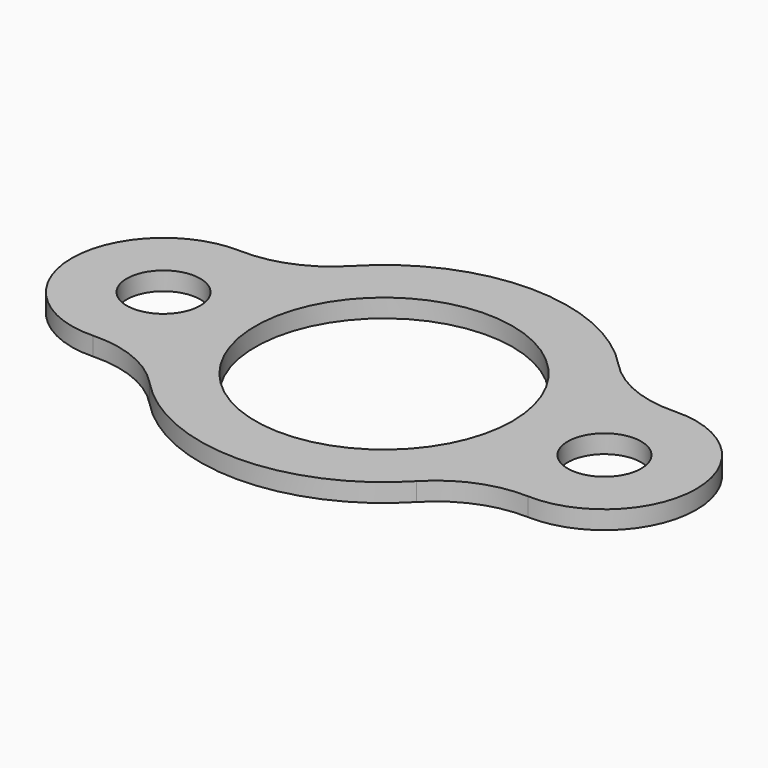
from build123d import *

# Parameters (mm, degrees)
F0_R     = 12.7
F0_R_2   = 44.45
F1_DEPTH = 6.35


with BuildPart() as f1:
    # F0 (on Top) → F1 (new body)
    with BuildSketch(Plane.XY):
        with BuildLine():
            ThreePointArc((89.465755, 24.931099), (73.695665, 27.764185), (60.48486, 36.830428))
            ThreePointArc((60.48486, 36.830428), (14.348141, 56.699554), (-31.788578, 36.830428))
            ThreePointArc((-31.788578, 36.830428), (-44.999383, 27.764185), (-60.769473, 24.931099))
            ThreePointArc((-60.769473, 24.931099), (-93.601859, -6.800446), (-60.769473, -38.531991))
            ThreePointArc((-60.769473, -38.531991), (-44.999383, -41.365078), (-31.788578, -50.43132))
            ThreePointArc((-31.788578, -50.43132), (14.348141, -70.300446), (60.48486, -50.43132))
            ThreePointArc((60.48486, -50.43132), (73.695665, -41.365078), (89.465755, -38.531991))
            ThreePointArc((89.465755, -38.531991), (122.298141, -6.800446), (89.465755, 24.931099))
        make_face()
        with Locations((-61.851859, -6.800446)):
            Circle(F0_R, mode=Mode.SUBTRACT)
        with Locations((90.548141, -6.800446)):
            Circle(F0_R, mode=Mode.SUBTRACT)
        with Locations((14.348141, -6.800446)):
            Circle(F0_R_2, mode=Mode.SUBTRACT)
    extrude(amount=-F1_DEPTH)


solid = f1.part
